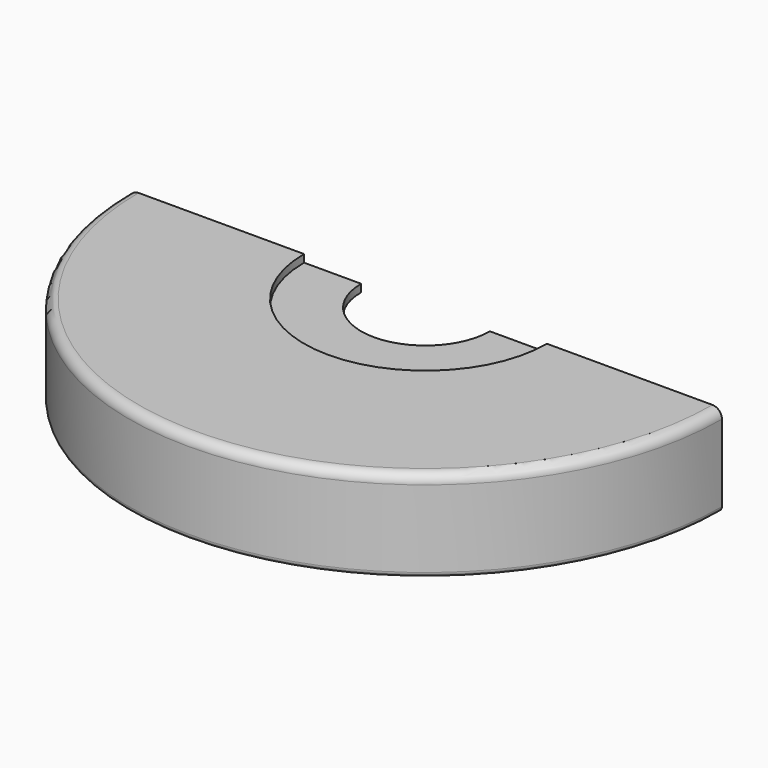
from build123d import *

# Parameters (mm, degrees)
F1_ANGLE = 180


with BuildPart() as f1:
    # F0 (on Front) → F1 (revolve)
    with BuildSketch(Plane.XZ):
        with BuildLine():
            ThreePointArc((98.9584, 1.905), (98.028464, 4.150064), (95.7834, 5.08))
            Line((95.7834, 5.08), (40.5384, 5.08))
            Line((40.5384, 5.08), (40.5384, 2.54))
            Line((40.5384, 2.54), (21.4884, 2.54))
            Line((21.4884, 2.54), (21.4884, 0))
            Line((21.4884, 0), (92.2909, 0))
            ThreePointArc((92.2909, 0), (93.413432, -0.464968), (93.8784, -1.5875))
            Line((93.8784, -1.5875), (93.8784, -23.8125))
            ThreePointArc((93.8784, -23.8125), (94.343368, -24.935032), (95.4659, -25.4))
            Line((95.4659, -25.4), (97.3709, -25.4))
            ThreePointArc((97.3709, -25.4), (98.493432, -24.935032), (98.9584, -23.8125))
            Line((98.9584, -23.8125), (98.9584, 1.905))
        make_face()
    revolve(axis=Axis((0, 0, -0.332045), (0, 0, -1)), revolution_arc=F1_ANGLE)


solid = f1.part
